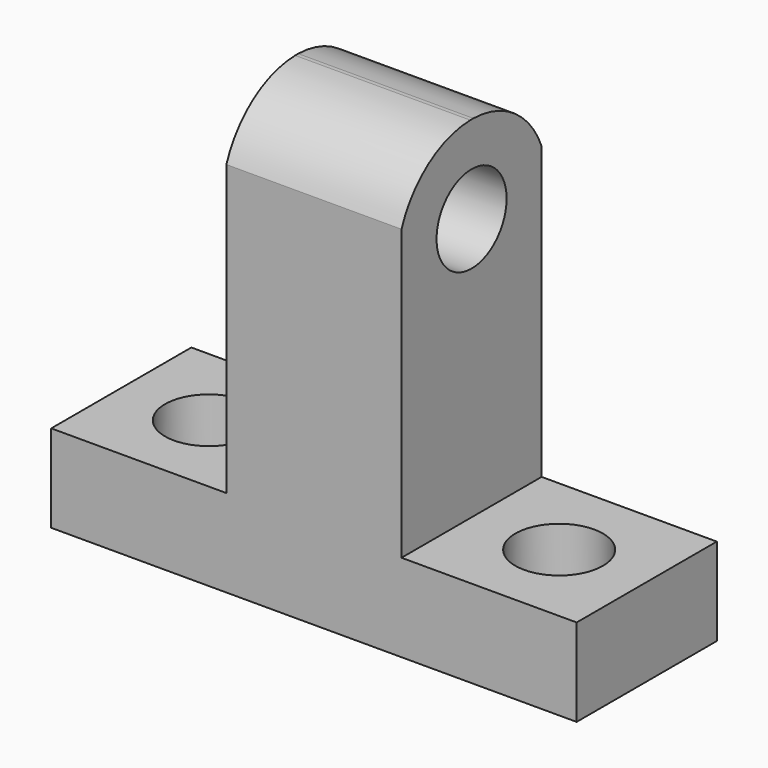
from build123d import *

# Parameters (mm, degrees)
F0_W      = 76.2
F0_H      = 63.5
F1_DEPTH  = 25.4
F2_W      = 25.4
F2_H      = 50.8
F3_DEPTH  = 25.401
F7_DEPTH  = 25.4
F5_R      = 6.35
F4_R      = 6.35
F8_DEPTH  = 25.4
F9_R      = 6.35
F10_DEPTH = 50.801


with BuildPart() as f1:
    # F0 (on Front) → F1 (new body)
    with BuildSketch(Plane.XZ):
        with Locations((-30.763134826, 27.8038036936)):
            Rectangle(F0_W, F0_H)
    extrude(amount=F1_DEPTH)

    # F2 (on face) → F3 (cut, through all)
    with BuildSketch(Plane.XZ.offset(25.4)):
        with Locations((-56.163134826, 34.1538036936)):
            Rectangle(F2_W, F2_H)
        with Locations((-5.363134826, 34.1538036936)):
            Rectangle(F2_W, F2_H)
    extrude(amount=-F3_DEPTH, mode=Mode.SUBTRACT)

    # F6 (on face) → F7 (cut)
    with BuildSketch(Plane.YZ.offset(-18.063134826)):
        with BuildLine():
            ThreePointArc((-25.4, 50.7014505565), (-20.5266979075, 57.0452252376), (-12.9306736435, 59.5538036936))
            Line((-12.9306736435, 59.5538036936), (-25.4, 59.5538036936))
            Line((-25.4, 59.5538036936), (-25.4, 50.7014505565))
        make_face()
        with BuildLine():
            ThreePointArc((-12.3705876013, 59.5538036936), (-4.8872224378, 57.1243511626), (0, 50.9584732354))
            Line((0, 50.9584732354), (0, 59.5538036936))
            Line((0, 59.5538036936), (-12.3705876013, 59.5538036936))
        make_face()
    extrude(amount=-F7_DEPTH, mode=Mode.SUBTRACT)

    # F5 (on face) + F4 (on face) → F8 (cut)
    with BuildSketch(Plane.XY.offset(8.7538036936)):
        with Locations((-5.363134826, -12.7)):
            Circle(F5_R)
    with BuildSketch(Plane.XY.offset(8.7538036936)):
        with Locations((-56.163134826, -12.7)):
            Circle(F4_R)
    extrude(amount=-F8_DEPTH, mode=Mode.SUBTRACT)

    # F9 (on face) → F10 (cut, through all)
    with BuildSketch(Plane.YZ.offset(-18.063134826)):
        with Locations((-12.7, 46.8580765592)):
            Circle(F9_R)
    extrude(amount=-F10_DEPTH, mode=Mode.SUBTRACT)


solid = f1.part
